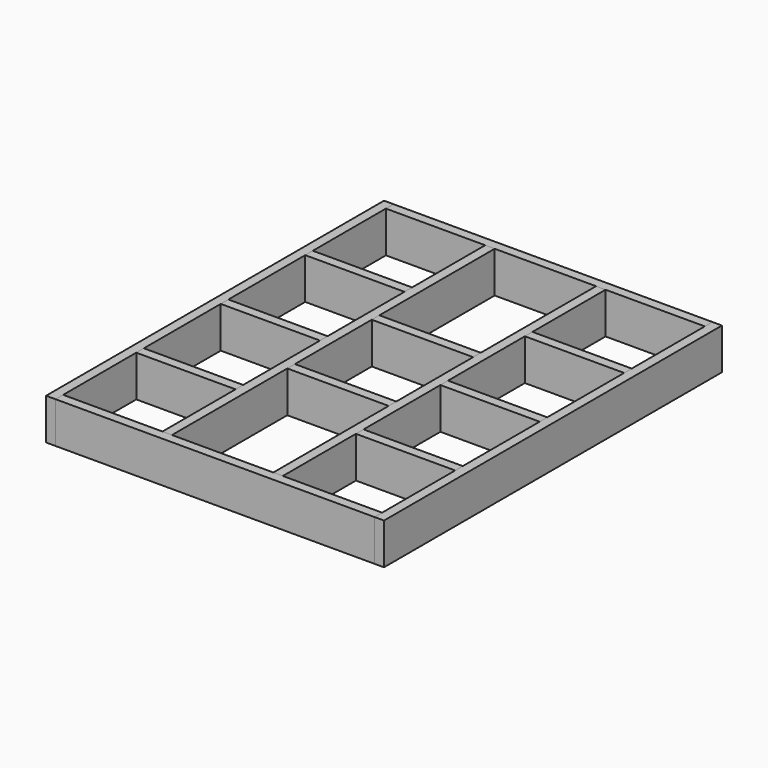
from build123d import *

# Parameters (mm, degrees)
F3_DEPTH = 195
F2_W     = 470
F2_H     = 45
F2_W_2   = 480
F4_DEPTH = 195


with BuildPart() as f3:
    # F2 (on offset) → F3 (new body)
    with BuildSketch(Plane.XY.offset(95)):
        Polygon((45, 2305), (0, 2305), (0, 305), (45, 305), (45, 350), (45, 782.5), (45, 827.5), (45, 1282.5), (45, 1327.5), (45, 1782.5), (45, 1827.5), (45, 2260), align=None)
        Polygon((560, 2260), (515, 2260), (515, 1827.5), (515, 1782.5), (515, 1327.5), (515, 1282.5), (515, 827.5), (515, 782.5), (515, 350), (560, 350), (560, 1032.5), (560, 1077.5), (560, 1532.5), (560, 1577.5), align=None)
        Polygon((1085, 1827.5), (1085, 2260), (1040, 2260), (1040, 1577.5), (1040, 1532.5), (1040, 1077.5), (1040, 1032.5), (1040, 350), (1085, 350), (1085, 782.5), (1085, 827.5), (1085, 1282.5), (1085, 1327.5), (1085, 1782.5), align=None)
        Polygon((1600, 2305), (1555, 2305), (1555, 2260), (1555, 1827.5), (1555, 1782.5), (1555, 1327.5), (1555, 1282.5), (1555, 827.5), (1555, 782.5), (1555, 350), (1555, 305), (1600, 305), align=None)
    extrude(amount=F3_DEPTH)


with BuildPart() as f4:
    # F2 (on offset) → F4 (new body)
    with BuildSketch(Plane.XY.offset(95)):
        Polygon((1555, 2305), (45, 2305), (45, 2260), (515, 2260), (560, 2260), (1040, 2260), (1085, 2260), (1555, 2260), align=None)
        with Locations((280, 1805)):
            Rectangle(F2_W, F2_H)
        with Locations((280, 1305)):
            Rectangle(F2_W, F2_H)
        with Locations((280, 805)):
            Rectangle(F2_W, F2_H)
        Polygon((45, 350), (45, 305), (1555, 305), (1555, 350), (1085, 350), (1040, 350), (560, 350), (515, 350), align=None)
        with Locations((800, 1055)):
            Rectangle(F2_W_2, F2_H)
        with Locations((800, 1555)):
            Rectangle(F2_W_2, F2_H)
        with Locations((1320, 1805)):
            Rectangle(F2_W, F2_H)
        with Locations((1320, 1305)):
            Rectangle(F2_W, F2_H)
        with Locations((1320, 805)):
            Rectangle(F2_W, F2_H)
    extrude(amount=F4_DEPTH)


solid = Compound([f3.part, f4.part])
